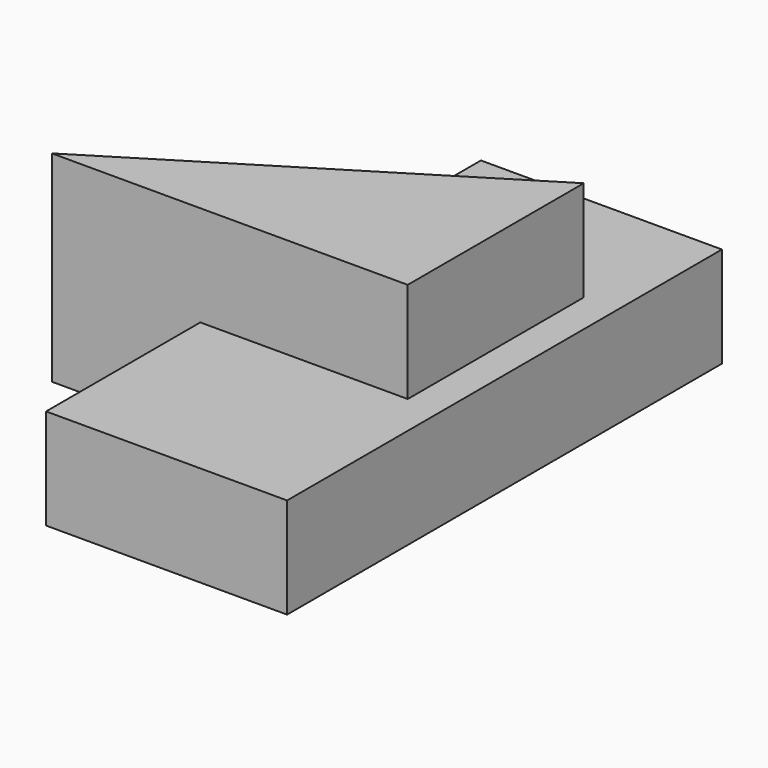
from build123d import *

# Parameters (mm, degrees)
F1_DEPTH = 50
F2_W     = 59.939869
F2_H     = 135.170739
F3_DEPTH = 25


with BuildPart() as f1:
    # F0 (on Top) → F1 (new body)
    with BuildSketch(Plane.XY):
        Polygon((37.273418, 19.90559), (-51.23112, -34.814954), (37.273418, -34.814954), align=None)
    extrude(amount=F1_DEPTH)

    # F2 (on Top) → F3 (join)
    with BuildSketch(Plane.XY):
        with Locations((15.658964, -15.171492)):
            Rectangle(F2_W, F2_H)
    extrude(amount=F3_DEPTH)


solid = f1.part
